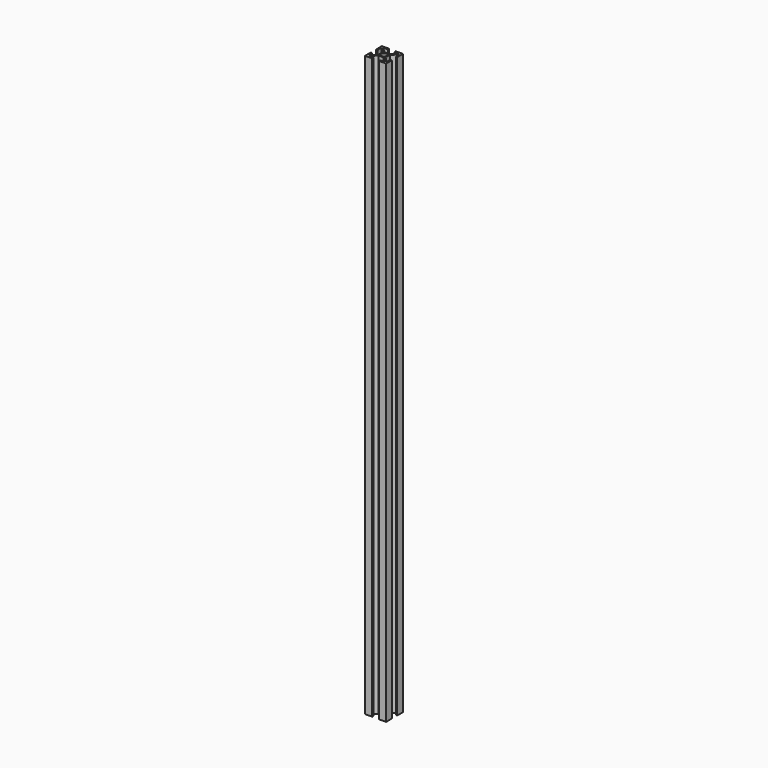
from build123d import *

# Parameters (mm, degrees)
F0_R     = 2.5
F1_DEPTH = 550


with BuildPart() as f1:
    # F0 (on Top) → F1 (new body)
    with BuildSketch(Plane.XY):
        Polygon((6.5, 7.616114), (1.4, 2.389949), (1.4, 6.8), (0, 6.8), (0, 0), (6.8, 0), (6.8, 1.4), (2.389949, 1.4), (7.489949, 6.5), (12.510051, 6.5), (17.610051, 1.4), (13.2, 1.4), (13.2, 0), (20, 0), (20, 6.8), (18.6, 6.8), (18.6, 2.389949), (13.5, 7.489949), (13.5, 12.510051), (18.6, 17.610051), (18.6, 13.2), (20, 13.2), (20, 20), (13.2, 20), (13.2, 18.6), (17.610051, 18.6), (12.510051, 13.5), (7.489949, 13.5), (2.389949, 18.6), (6.8, 18.6), (6.8, 20), (0, 20), (0, 13.2), (1.4, 13.2), (1.4, 17.610051), (6.5, 12.510051), align=None)
        with Locations((10, 10)):
            Circle(F0_R, mode=Mode.SUBTRACT)
    extrude(amount=F1_DEPTH)


solid = f1.part
